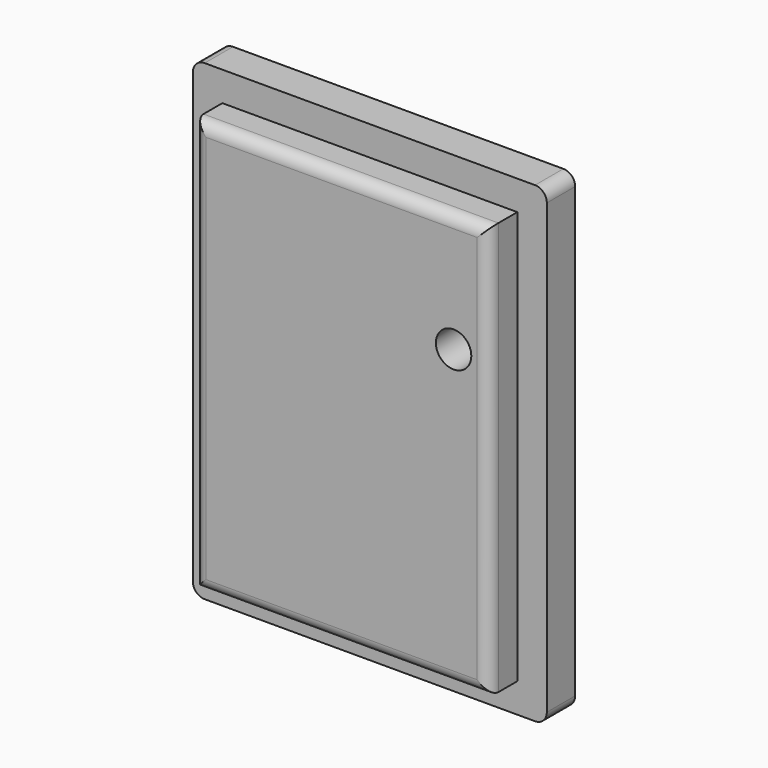
from build123d import *

# Parameters (mm, degrees)
F0_W     = 30
F0_H     = 40
F1_DEPTH = 3
F2_W     = 25
F2_H     = 35
F3_DEPTH = 3
F4_R     = 1
F5_R     = 1
F6_R     = 1.5
F7_DEPTH = 25


with BuildPart() as f1:
    # F0 (on Front) → F1 (new body)
    with BuildSketch(Plane.XZ):
        with Locations((1.927273, 10.06356)):
            Rectangle(F0_W, F0_H)
    extrude(amount=F1_DEPTH)

    # F2 (on face) → F3 (join)
    with BuildSketch(Plane.XZ.offset(3)):
        with Locations((1.927273, 10.06356)):
            Rectangle(F2_W, F2_H)
    extrude(amount=F3_DEPTH)

    # F4
    f4_edges = [f1.edges().sort_by_distance(p)[0] for p in [
        (-13.072727, -1.5, 30.06356),
        (-13.072727, -1.5, -9.93644),
        (16.927273, -1.5, -9.93644),
        (16.927273, -1.5, 30.06356),
    ]]
    fillet(f4_edges, radius=F4_R)

    # F5
    f5_edges = [f1.edges().sort_by_distance(p)[0] for p in [
        (14.427273, -6, 10.06356),
        (1.927273, -6, 27.56356),
        (-10.572727, -6, 10.06356),
        (1.927273, -6, -7.43644),
    ]]
    fillet(f5_edges, radius=F5_R)

    # F6 (on face) → F7 (cut)
    with BuildSketch(Plane.XZ.offset(6)):
        with Locations((11.427273, 17.56356)):
            Circle(F6_R)
    extrude(amount=-F7_DEPTH, mode=Mode.SUBTRACT)


solid = f1.part
